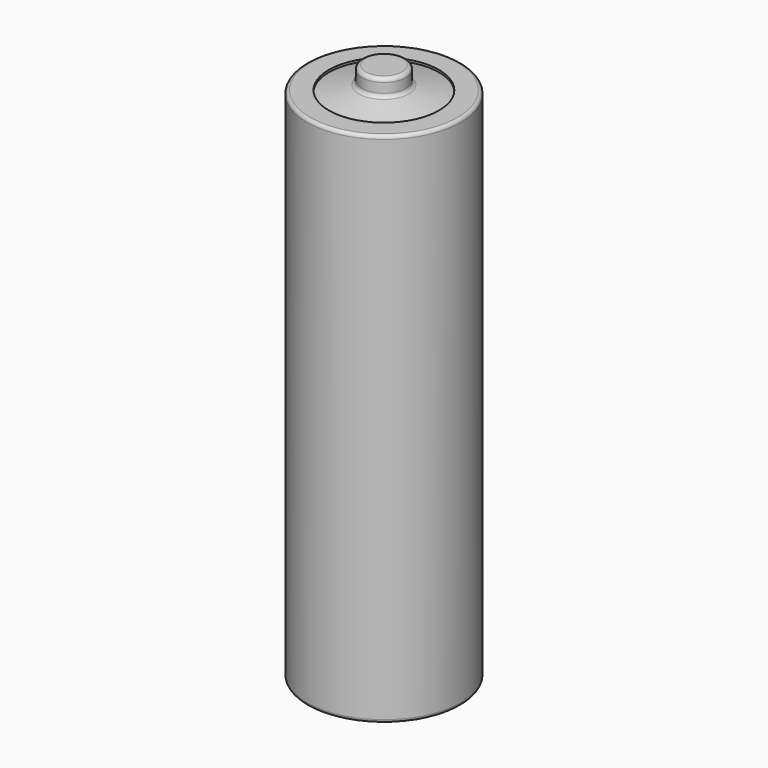
from build123d import *

# Parameters (mm, degrees)
FILLET_R    = 0.35
FILLET001_R = 0.3


with BuildPart() as part:
    # Sketch → Revolution (revolve)
    with BuildSketch(Plane.XZ):
        with BuildLine():
            Line((0, 0), (-4, 0))
            ThreePointArc((-4.999988, 1), (-4.707099, 0.292897), (-4, 0))
            Line((-7, 1), (-4.999988, 1))
            Line((-7, 1), (-7, 48))
            Line((-7, 48), (-5, 48))
            Line((-5, 48), (-5, 47.8))
            Line((-5, 47.8), (-2, 48.5))
            Line((-2, 48.5), (-2, 50))
            Line((-2, 50), (0, 50))
            Line((0, 50), (0, 0))
        make_face()
    revolve(axis=Axis((0, 0, 0), (0, 0, 1)))

    # Fillet
    fillet_edges = [part.edges().sort_by_distance(p)[0] for p in [
        (2, 0, 50),
        (2, 0, 48.5),
    ]]
    fillet(fillet_edges, radius=FILLET_R)

    # Fillet001
    fillet001_edges = [part.edges().sort_by_distance(p)[0] for p in [
        (7, 0, 1),
        (7, 0, 48),
    ]]
    fillet(fillet001_edges, radius=FILLET001_R)


solid = part.part
